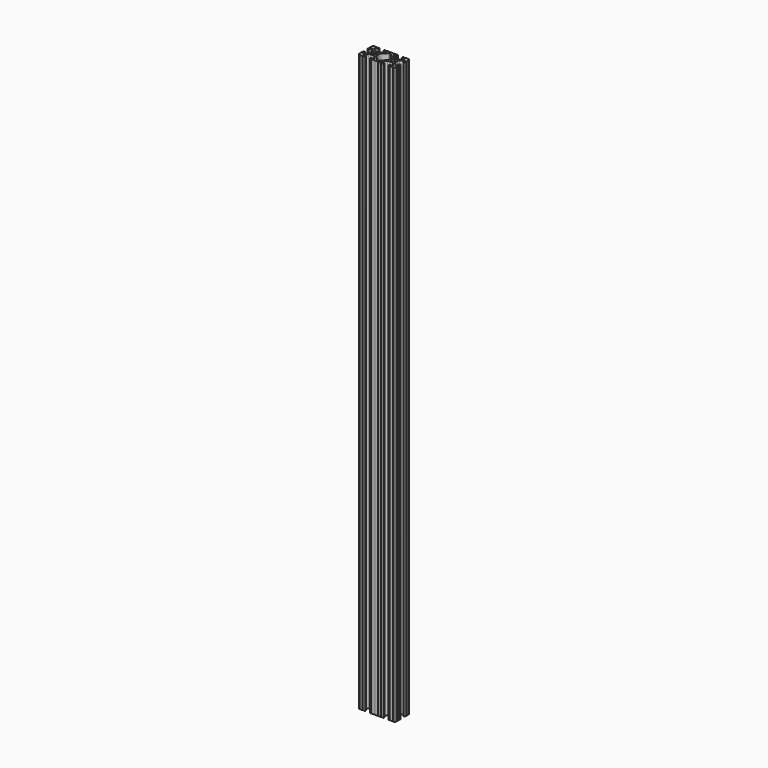
from build123d import *

# Parameters (mm, degrees)
SKETCH162_R   = 2.6035
EXTRUDE_DEPTH = 787.4


with BuildPart() as part:
    # Sketch162 → Extrude (new body)
    with BuildSketch(Plane.XY):
        with BuildLine():
            Line((8.41248, -10.4902), (6.283641, -10.4902))
            ThreePointArc((5.532577, -8.666072), (5.297292, -9.829633), (6.283641, -10.4902))
            Line((5.532577, -8.666072), (8.809985, -5.416263))
            ThreePointArc((11.045536, -4.4958), (9.836721, -4.73492), (8.809985, -5.416263))
            Line((11.045536, -4.4958), (14.354464, -4.4958))
            ThreePointArc((16.590015, -5.416263), (15.563279, -4.73492), (14.354464, -4.4958))
            Line((16.590015, -5.416263), (19.867423, -8.666072))
            ThreePointArc((19.116359, -10.4902), (20.102708, -9.829633), (19.867423, -8.666072))
            Line((19.116359, -10.4902), (16.98752, -10.4902))
            ThreePointArc((16.98752, -10.4902), (16.245751, -10.797451), (15.9385, -11.53922))
            Line((15.9385, -11.53922), (15.938501, -11.65105))
            ThreePointArc((15.938501, -11.65105), (16.245731, -12.39277), (16.98745, -12.7))
            Line((16.98745, -12.7), (18.017115, -12.7))
            ThreePointArc((19.033115, -12.7), (18.525115, -12.192), (18.017115, -12.7))
            Line((19.033115, -12.7), (22.2504, -12.7))
            ThreePointArc((23.2664, -12.699847), (22.758323, -12.192), (22.2504, -12.7))
            ThreePointArc((23.2664, -12.699847), (24.782523, -12.082523), (25.399847, -10.5664))
            ThreePointArc((25.4, -9.5504), (24.892, -10.058323), (25.399847, -10.5664))
            Line((25.4, -9.5504), (25.4, -6.333084))
            ThreePointArc((25.4, -5.317084), (24.892, -5.825084), (25.4, -6.333084))
            Line((25.4, -5.317084), (25.4, -4.23752))
            ThreePointArc((25.4, -4.23752), (25.107394, -3.531106), (24.40098, -3.2385))
            Line((24.40098, -3.2385), (24.239219, -3.2385))
            ThreePointArc((24.239219, -3.2385), (23.49745, -3.545751), (23.1902, -4.28752))
            Line((23.1902, -4.28752), (23.1902, -6.334741))
            ThreePointArc((21.434003, -7.066536), (22.556027, -7.286024), (23.1902, -6.334741))
            Line((21.434003, -7.066536), (18.147951, -3.808156))
            ThreePointArc((17.208502, -1.55362), (17.45276, -2.774838), (18.147951, -3.808156))
            Line((17.208502, -1.55362), (17.208502, 1.695179))
            ThreePointArc((18.140486, 3.94229), (17.450739, 2.911536), (17.208502, 1.695179))
            Line((18.140486, 3.94229), (21.43158, 7.227386))
            ThreePointArc((23.1902, 6.498002), (22.554449, 7.449941), (21.43158, 7.227386))
            Line((23.1902, 6.498002), (23.190199, 4.28752))
            ThreePointArc((23.190199, 4.28752), (23.49745, 3.545751), (24.23922, 3.2385))
            Line((24.23922, 3.2385), (24.350981, 3.2385))
            ThreePointArc((24.350981, 3.2385), (25.09275, 3.545751), (25.4, 4.28752))
            Line((25.4, 4.28752), (25.4, 5.317134))
            ThreePointArc((25.4, 6.333134), (24.892, 5.825134), (25.4, 5.317134))
            Line((25.4, 6.333134), (25.4, 9.5504))
            ThreePointArc((25.399847, 10.5664), (24.892, 10.058324), (25.4, 9.5504))
            ThreePointArc((25.399847, 10.5664), (24.782523, 12.082523), (23.2664, 12.699847))
            ThreePointArc((22.2504, 12.7), (22.758323, 12.192), (23.2664, 12.699847))
            Line((22.2504, 12.7), (19.03309, 12.7))
            ThreePointArc((18.01709, 12.7), (18.52509, 12.192), (19.03309, 12.7))
            Line((18.01709, 12.7), (16.98747, 12.7))
            ThreePointArc((16.98747, 12.7), (16.2457, 12.392749), (15.938449, 11.65098))
            Line((15.938449, 11.65098), (15.938449, 11.53922))
            ThreePointArc((15.938449, 11.53922), (16.2457, 10.797451), (16.987469, 10.4902))
            Line((16.987469, 10.4902), (19.116359, 10.4902))
            ThreePointArc((19.834124, 8.755125), (20.055198, 9.862578), (19.116359, 10.4902))
            Line((19.834124, 8.755125), (16.496607, 5.42369))
            ThreePointArc((14.253592, 4.4958), (15.467274, 4.736929), (16.496607, 5.42369))
            Line((14.253592, 4.4958), (11.146408, 4.4958))
            ThreePointArc((8.903392, 5.42369), (9.932726, 4.736929), (11.146408, 4.4958))
            Line((8.903392, 5.42369), (5.565875, 8.755125))
            ThreePointArc((6.283641, 10.4902), (5.344802, 9.862579), (5.565875, 8.755125))
            Line((6.283641, 10.4902), (8.412531, 10.4902))
            ThreePointArc((8.412531, 10.4902), (9.1543, 10.797451), (9.461551, 11.53922))
            Line((9.461551, 11.53922), (9.461551, 11.65098))
            ThreePointArc((9.461551, 11.65098), (9.1543, 12.392749), (8.412531, 12.7))
            Line((8.412531, 12.7), (7.382872, 12.7))
            ThreePointArc((6.366872, 12.7), (6.874872, 12.192), (7.382872, 12.7))
            Line((6.366872, 12.7), (3.149606, 12.7))
            ThreePointArc((2.133606, 12.7), (2.641606, 12.192), (3.149606, 12.7))
            Line((2.133606, 12.7), (-2.133606, 12.7))
            ThreePointArc((-3.149581, 12.7), (-2.641594, 12.192013), (-2.133606, 12.7))
            Line((-3.149581, 12.7), (-6.36691, 12.7))
            ThreePointArc((-7.38291, 12.7), (-6.87491, 12.192), (-6.36691, 12.7))
            Line((-7.38291, 12.7), (-8.412531, 12.7))
            ThreePointArc((-8.412531, 12.7), (-9.1543, 12.392749), (-9.461551, 11.65098))
            Line((-9.461551, 11.65098), (-9.461551, 11.53922))
            ThreePointArc((-9.461551, 11.53922), (-9.1543, 10.797451), (-8.412531, 10.4902))
            Line((-8.412531, 10.4902), (-6.289393, 10.4902))
            ThreePointArc((-5.480677, 8.535266), (-5.23159, 9.78305), (-6.289393, 10.4902))
            Line((-5.480677, 8.535266), (-8.597934, 5.42369))
            ThreePointArc((-10.840949, 4.4958), (-9.627267, 4.736929), (-8.597934, 5.42369))
            Line((-10.840949, 4.4958), (-14.102564, 4.4958))
            ThreePointArc((-16.187895, 5.276637), (-15.215928, 4.69741), (-14.102564, 4.4958))
            Line((-16.187895, 5.276637), (-19.868248, 8.482246))
            ThreePointArc((-19.116384, 10.4902), (-20.188436, 9.74688), (-19.868248, 8.482246))
            Line((-19.116384, 10.4902), (-16.987469, 10.4902))
            ThreePointArc((-16.987469, 10.4902), (-16.2457, 10.797451), (-15.938449, 11.53922))
            Line((-15.938449, 11.53922), (-15.938449, 11.65098))
            ThreePointArc((-15.938449, 11.65098), (-16.2457, 12.392749), (-16.987469, 12.7))
            Line((-16.987469, 12.7), (-18.017103, 12.7))
            ThreePointArc((-19.033103, 12.7), (-18.525103, 12.192), (-18.017103, 12.7))
            Line((-19.033103, 12.7), (-22.2504, 12.7))
            ThreePointArc((-23.2664, 12.699847), (-22.758323, 12.192), (-22.2504, 12.7))
            ThreePointArc((-23.2664, 12.699847), (-24.782523, 12.082523), (-25.399847, 10.5664))
            ThreePointArc((-25.4, 9.5504), (-24.892, 10.058323), (-25.399847, 10.5664))
            Line((-25.4, 9.5504), (-25.4, 6.333084))
            ThreePointArc((-25.4, 5.317084), (-24.892, 5.825084), (-25.4, 6.333084))
            Line((-25.4, 5.317084), (-25.4, 4.23752))
            ThreePointArc((-25.4, 4.23752), (-25.107394, 3.531106), (-24.40098, 3.2385))
            Line((-24.40098, 3.2385), (-24.18922, 3.2385))
            ThreePointArc((-24.18922, 3.2385), (-23.482806, 3.531106), (-23.1902, 4.23752))
            Line((-23.1902, 4.23752), (-23.1902, 6.155876))
            ThreePointArc((-21.583975, 6.886926), (-22.622327, 7.038259), (-23.1902, 6.155876))
            Line((-21.583975, 6.886926), (-18.298171, 4.024971))
            ThreePointArc((-17.208502, 1.630807), (-17.493731, 2.946045), (-18.298171, 4.024971))
            Line((-17.208502, 1.630807), (-17.208502, -1.630807))
            ThreePointArc((-18.109441, -3.846495), (-17.442348, -2.826734), (-17.208502, -1.630807))
            Line((-18.109441, -3.846495), (-21.526347, -7.35342))
            ThreePointArc((-23.1902, -6.676867), (-22.585896, -7.574939), (-21.526347, -7.35342))
            Line((-23.1902, -6.676867), (-23.1902, -4.23752))
            ThreePointArc((-23.1902, -4.23752), (-23.482806, -3.531106), (-24.18922, -3.2385))
            Line((-24.18922, -3.2385), (-24.400979, -3.2385))
            ThreePointArc((-24.400979, -3.2385), (-25.107394, -3.531106), (-25.4, -4.23752))
            Line((-25.4, -4.23752), (-25.4, -5.317084))
            ThreePointArc((-25.4, -6.333185), (-24.891949, -5.825134), (-25.4, -5.317084))
            Line((-25.4, -6.333185), (-25.4, -9.5504))
            ThreePointArc((-25.399847, -10.5664), (-24.892, -10.058323), (-25.4, -9.5504))
            ThreePointArc((-25.399847, -10.5664), (-24.782522, -12.082522), (-23.2664, -12.699847))
            ThreePointArc((-22.2504, -12.7), (-22.758323, -12.192), (-23.2664, -12.699847))
            Line((-22.2504, -12.7), (-19.033103, -12.7))
            ThreePointArc((-18.017103, -12.7), (-18.525103, -12.192), (-19.033103, -12.7))
            Line((-18.017103, -12.7), (-16.98745, -12.7))
            ThreePointArc((-16.98745, -12.7), (-16.24573, -12.39277), (-15.9385, -11.65105))
            Line((-15.9385, -11.65105), (-15.9385, -11.53922))
            ThreePointArc((-15.9385, -11.53922), (-16.245751, -10.797451), (-16.98752, -10.4902))
            Line((-16.98752, -10.4902), (-19.116384, -10.4902))
            ThreePointArc((-19.844087, -8.765172), (-20.052503, -9.869097), (-19.116384, -10.4902))
            Line((-19.844087, -8.765172), (-16.618993, -5.455112))
            ThreePointArc((-14.344933, -4.4958), (-15.578994, -4.745442), (-16.618993, -5.455112))
            Line((-14.344933, -4.4958), (-11.083318, -4.4958))
            ThreePointArc((-8.816955, -5.447239), (-9.854331, -4.743307), (-11.083318, -4.4958))
            Line((-8.816955, -5.447239), (-5.564154, -8.762653))
            ThreePointArc((-6.289393, -10.4902), (-5.352591, -9.867473), (-5.564154, -8.762653))
            Line((-6.289393, -10.4902), (-8.41248, -10.4902))
            ThreePointArc((-8.41248, -10.4902), (-9.154249, -10.797451), (-9.4615, -11.53922))
            Line((-9.4615, -11.53922), (-9.4615, -11.65105))
            ThreePointArc((-9.4615, -11.65105), (-9.154269, -12.39277), (-8.41255, -12.7))
            Line((-8.41255, -12.7), (-7.382885, -12.7))
            ThreePointArc((-6.366885, -12.7), (-6.874885, -12.192), (-7.382885, -12.7))
            Line((-6.366885, -12.7), (-3.149581, -12.7))
            ThreePointArc((-2.133581, -12.7), (-2.641581, -12.192), (-3.149581, -12.7))
            Line((-2.133581, -12.7), (2.133581, -12.7))
            ThreePointArc((3.149581, -12.7), (2.641581, -12.192), (2.133581, -12.7))
            Line((3.149581, -12.7), (6.366897, -12.7))
            ThreePointArc((7.382897, -12.7), (6.874897, -12.192), (6.366897, -12.7))
            Line((7.382897, -12.7), (8.41255, -12.7))
            ThreePointArc((8.41255, -12.7), (9.15427, -12.392769), (9.4615, -11.65105))
            Line((9.4615, -11.65105), (9.461501, -11.53922))
            ThreePointArc((9.461501, -11.53922), (9.154249, -10.797451), (8.41248, -10.4902))
        make_face()
        with Locations((12.7, 0)):
            Circle(SKETCH162_R, mode=Mode.SUBTRACT)
        with Locations((-12.7, 0)):
            Circle(SKETCH162_R, mode=Mode.SUBTRACT)
        with BuildLine():
            Line((7.259514, 3.869413), (1.545749, 9.572767))
            ThreePointArc((1.545749, 9.572767), (1.035199, 9.9134), (0.433213, 10.033))
            Line((0.433213, 10.033), (-0.433213, 10.033))
            ThreePointArc((-0.433213, 10.033), (-1.0352, 9.9134), (-1.545749, 9.572767))
            Line((-1.545749, 9.572767), (-7.259514, 3.869413))
            ThreePointArc((-7.259514, 3.869413), (-7.949261, 2.83866), (-8.191498, 1.622303))
            Line((-8.191498, 1.622303), (-8.191498, -1.622303))
            ThreePointArc((-8.191498, -1.622303), (-7.955573, -2.823328), (-7.282861, -3.845864))
            Line((-7.282861, -3.845864), (-1.675572, -9.561086))
            ThreePointArc((-1.675572, -9.561086), (-1.161034, -9.910236), (-0.551457, -10.033))
            Line((-0.551457, -10.033), (0.3952, -10.033))
            ThreePointArc((0.3952, -10.033), (0.994773, -9.914396), (1.504033, -9.57645))
            Line((1.504033, -9.57645), (7.252049, -3.87684))
            ThreePointArc((7.252049, -3.87684), (7.94724, -2.843521), (8.191498, -1.622303))
            Line((8.191498, -1.622303), (8.191499, 1.622303))
            ThreePointArc((8.191499, 1.622303), (7.949262, 2.83866), (7.259514, 3.869413))
        make_face(mode=Mode.SUBTRACT)
    extrude(amount=EXTRUDE_DEPTH)


solid = part.part
